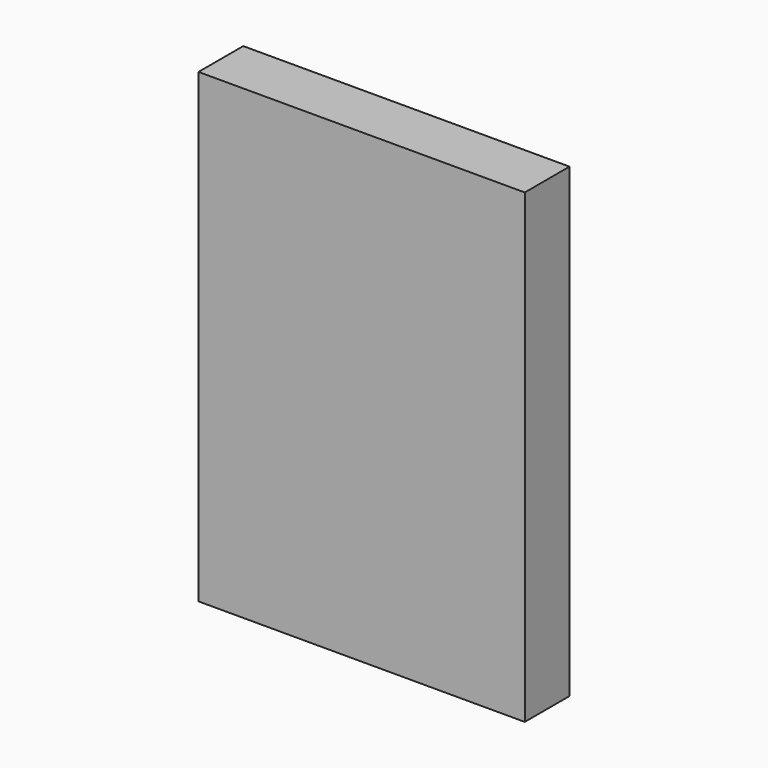
from build123d import *

# Parameters (mm, degrees)
SKETCH_W      = 35
SKETCH_H      = 6
EXTRUDE_DEPTH = 50


with BuildPart() as part:
    # Sketch → Extrude (new body)
    with BuildSketch(Plane.XY):
        Rectangle(SKETCH_W, SKETCH_H)
    extrude(amount=EXTRUDE_DEPTH)


solid = part.part
